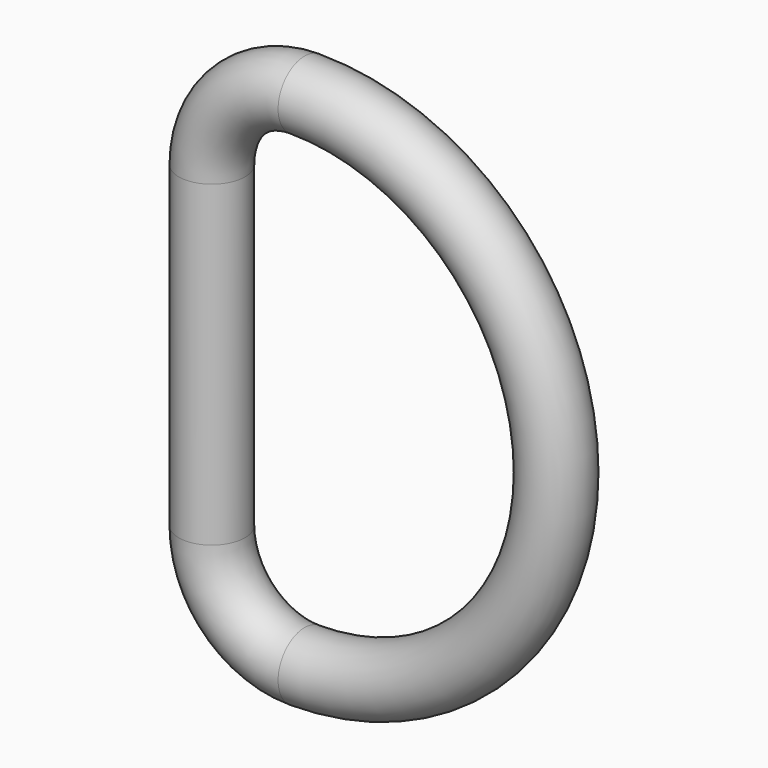
from build123d import *

# Parameters (mm, degrees)
F1_R = 2.5


with BuildPart() as f2:
    # F2: sweep along a path in F0
    with BuildLine(Plane.XZ) as f2_path:
        Line((0, 0), (0, 12))
        ThreePointArc((0, 12), (2.050253, 16.949747), (7, 19))
        ThreePointArc((7, 19), (26, 0), (7, -19))
        ThreePointArc((7, -19), (2.050253, -16.949747), (0, -12))
        Line((0, -12), (0, 0))
    # F1 (on Top) → F2 (sweep)
    with BuildSketch(Plane.XY):
        Circle(F1_R)
    sweep(path=f2_path.line)


solid = f2.part
